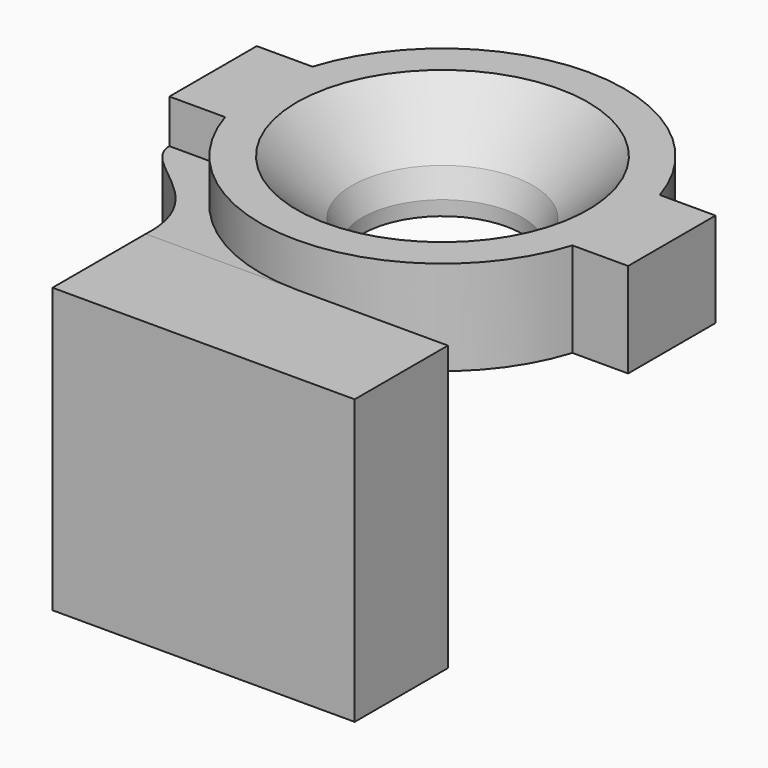
from build123d import *

# Parameters (mm, degrees)
F1_DEPTH = 13
F2_SIZE  = 9
F3_SIZE  = 2
F5_DEPTH = 39
F8_DEPTH = 7


with BuildPart() as f1:
    # F0 (on Top) → F1 (new body)
    with BuildSketch(Plane.XY):
        with BuildLine():
            Line((23.5, 0), (11, 0))
            ThreePointArc((11, 0), (0, -11), (-11, 0))
            Line((-11, 0), (-23.5, 0))
            Line((-23.5, 0), (-23.5, -7.5))
            Line((-23.5, -7.5), (-23.8484800354, -7.5))
            ThreePointArc((-23.8484800354, -7.5), (0, -25), (23.8484800354, -7.5))
            Line((23.8484800354, -7.5), (23.5, -7.5))
            Line((23.5, -7.5), (23.5, 0))
        make_face()
        with BuildLine():
            ThreePointArc((-11, 0), (0, 11), (11, 0))
            Line((11, 0), (23.5, 0))
            Line((23.5, 0), (23.5, 7.5))
            Line((23.5, 7.5), (23.8484800354, 7.5))
            ThreePointArc((23.8484800354, 7.5), (0, 25), (-23.8484800354, 7.5))
            Line((-23.8484800354, 7.5), (-23.5, 7.5))
            Line((-23.5, 7.5), (-23.5, 0))
            Line((-23.5, 0), (-11, 0))
        make_face()
        with BuildLine():
            Line((23.5, 7.5), (23.5, 0))
            Line((23.5, 0), (23.5, -7.5))
            Line((23.5, -7.5), (23.8484800354, -7.5))
            ThreePointArc((23.8484800354, -7.5), (24.7104431454, -3.7939424821), (25, 0))
            ThreePointArc((25, 0), (24.7104431454, 3.7939424821), (23.8484800354, 7.5))
            Line((23.8484800354, 7.5), (23.5, 7.5))
        make_face()
        with BuildLine():
            Line((-23.5, -7.5), (-23.5, 0))
            Line((-23.5, 0), (-23.5, 7.5))
            Line((-23.5, 7.5), (-23.8484800354, 7.5))
            ThreePointArc((-23.8484800354, 7.5), (-25, 0), (-23.8484800354, -7.5))
            Line((-23.8484800354, -7.5), (-23.5, -7.5))
        make_face()
        with BuildLine():
            Line((31.5, 7.5), (23.8484800354, 7.5))
            ThreePointArc((23.8484800354, 7.5), (24.7104431454, 3.7939424821), (25, 0))
            ThreePointArc((25, 0), (24.7104431454, -3.7939424821), (23.8484800354, -7.5))
            Line((23.8484800354, -7.5), (31.5, -7.5))
            Line((31.5, -7.5), (31.5, 7.5))
        make_face()
        with BuildLine():
            ThreePointArc((-23.8484800354, -7.5), (-25, 0), (-23.8484800354, 7.5))
            Line((-23.8484800354, 7.5), (-31.5, 7.5))
            Line((-31.5, 7.5), (-31.5, -7.5))
            Line((-31.5, -7.5), (-23.8484800354, -7.5))
        make_face()
    extrude(amount=F1_DEPTH)

    # F2
    f2_edges = [f1.edges().sort_by_distance(p)[0] for p in [
        (11, 0, 13),
    ]]
    chamfer(f2_edges, length=F2_SIZE)

    # F3
    f3_edges = [f1.edges().sort_by_distance(p)[0] for p in [
        (11, 0, 4),
    ]]
    chamfer(f3_edges, length=F3_SIZE)


with BuildPart() as f5:
    # F4 (on Top) → F5 (new body)
    with BuildSketch(Plane.XY):
        Polygon((-20.75, -41), (20.75, -41), (20.75, -25), (0, -25), (-20.75, -25), align=None)
    extrude(amount=F5_DEPTH)


with BuildPart() as f5_1:
    # F6: moved
    add(f5.part.moved(Location((0, 0, -32))))


with BuildPart() as f8:
    # F7 (on Top) → F8 (new body, symmetric)
    with BuildSketch(Plane.XY):
        with BuildLine():
            Line((-20.75, -25), (0, -25))
            Line((0, -25), (0, -17))
            ThreePointArc((0, -17), (-12.0208152802, -12.0208152802), (-17, 0))
            Line((-17, 0), (-31.5, 0))
            Line((-31.5, 0), (-31.5, -7.5))
            add(Edge.make_bspline(
                [(-31.5, -7.5), (-31.4018651843, -12.5820655376), (-20.1589390635, -14.0679152682), (-20.75, -25)],
                knots=[0, 0, 0, 0, 20.5380743985, 20.5380743985, 20.5380743985, 20.5380743985], degree=3))
        make_face()
    extrude(amount=F8_DEPTH, both=True)


solid = Compound([f1.part, f5_1.part, f8.part])
